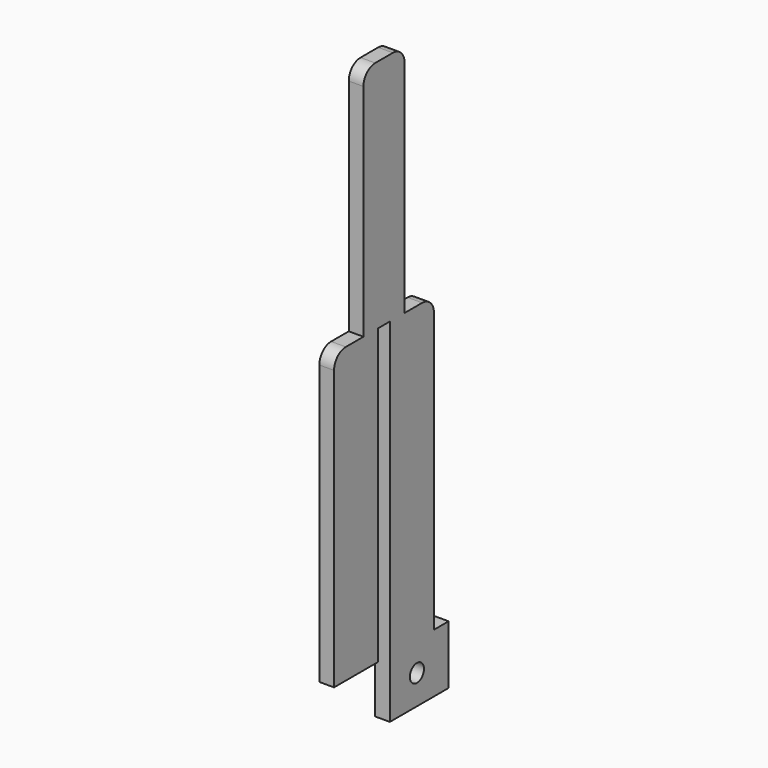
from build123d import *

# Parameters (mm, degrees)
F0_R     = 3.81
F1_DEPTH = 3.175


with BuildPart() as f1:
    # F0 (on Right) → F1 (new body, symmetric)
    with BuildSketch(Plane.YZ):
        Polygon((34.925, -63.5), (26.9875, -63.5), (3.175, -63.5), (3.175, -88.9), (34.925, -88.9), align=None)
        with Locations((17.78, -76.2)):
            Circle(F0_R, mode=Mode.SUBTRACT)
        with BuildLine():
            Line((3.175, -63.5), (26.9875, -63.5))
            Line((26.9875, -63.5), (26.9875, 57.15))
            ThreePointArc((26.9875, 57.15), (25.127628, 61.640128), (20.6375, 63.5))
            Line((20.6375, 63.5), (17.464617, 63.5))
            Line((17.464617, 63.5), (11.113911, 63.5))
            Line((11.113911, 63.5), (11.124494, 158.749293))
            ThreePointArc((11.124494, 158.749293), (9.264872, 163.239877), (4.774494, 165.099999))
            Line((4.774494, 165.099999), (-4.7498, 165.099999))
            ThreePointArc((-4.7498, 165.099999), (-9.239928, 163.240127), (-11.0998, 158.749999))
            Line((-11.0998, 158.749999), (-11.0998, 63.5))
            Line((-11.0998, 63.5), (-17.4498, 63.5))
            Line((-17.4498, 63.5), (-20.6375, 63.5))
            ThreePointArc((-20.6375, 63.5), (-25.127628, 61.640128), (-26.9875, 57.15))
            Line((-26.9875, 57.15), (-26.9875, -63.5))
            Line((-26.9875, -63.5), (-3.175, -63.5))
            Line((-3.175, -63.5), (-3.175, 63.5))
            Line((-3.175, 63.5), (3.175, 63.5))
            Line((3.175, 63.5), (3.175, -63.5))
        make_face()
    extrude(amount=F1_DEPTH, both=True)


solid = f1.part
